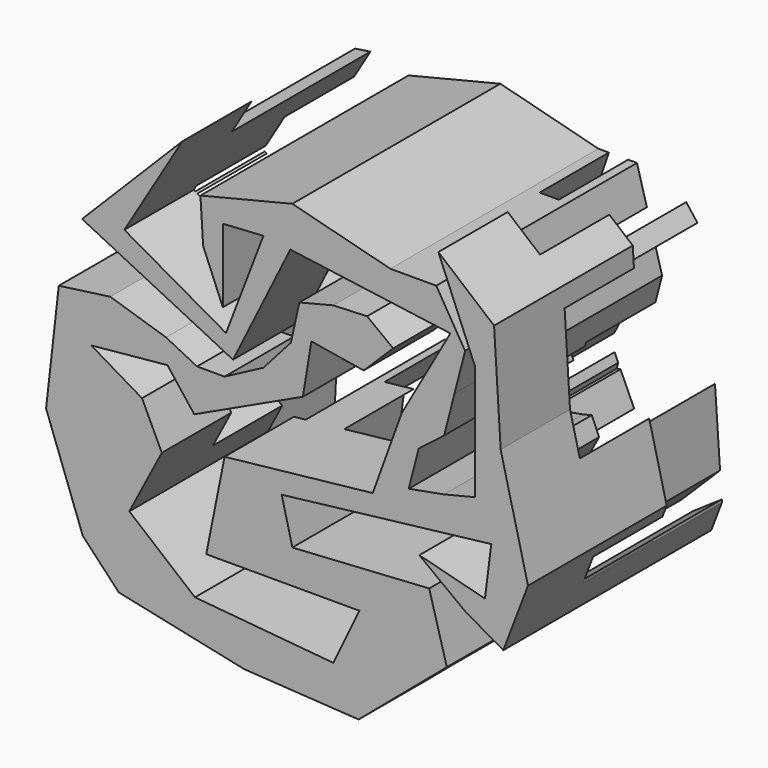
from build123d import *

# Parameters (mm, degrees)
F1_DEPTH = 76.2
F3_DEPTH = 25.4
F5_DEPTH = 50.8


with BuildPart() as f1:
    # F0 (on Front) → F1 (new body)
    with BuildSketch(Plane.XZ):
        Polygon((-46.103954, 32.975696), (-29.150931, 61.299652), (-58.508605, 31.735234), (-14.265349, 9.820349), (2.522026, 43.711839), (49.411863, 37.317328), (35.146512, 12.094535), (26.67, -11.267558), (-16.746279, -16.022675), (-22.121629, -42.899422), (22.741862, -42.899422), (15.092324, -58.81872), (-25.429536, -55.097323), (-44.656742, -39.178025), (-35.146512, -20.984536), (-40.935349, -8.786628), (-55.820931, 0), (-33.492558, 2.170814), (-25.63628, -7.959652), (6.202325, 6.92593), (8.683257, 22.018258), (24.012733, 19.498343), (32.665581, 28.013837), (25.016049, 33.802673), (15.092324, 33.389185), (5.168606, 30.908257), (2.687674, 19.74407), (-5.375348, 10.647326), (-16.746279, 4.651744), (-24.809303, 4.651744), (-33.906046, 9.200117), (-50.238837, 14.36872), (-65.331161, 12.301279), (-69.052555, -20.571047), (-58.301862, -49.928721), (-47.757909, -61.092909), (-10.957442, -68.949185), (22.535117, -71.016632), (48.37814, -49.101744), (43.209534, -30.494768), (3.101162, -32.975696), (0, -20.364303), (61.403029, -13.128256), (59.542328, -27.807092), (40.315118, -22.845231), (53.753491, -32.975696), (64.917676, -39.384767), (72.153717, -20.364303), (64.155609, 12.161336), (62.217551, 43.493307), (45.897208, 57.164766), (56.647904, 31.115001), (56.647904, -2.584302), (47.545715, -4.822546), (37.213955, -6.719186), (40.134595, 4.598293), (47.581897, 10.37375), (50.629741, 22.184147), (53.734333, 34.214439), (45.276977, 48.274767), (31.838607, 48.274767), (3.101162, 55.690882), (-23.822103, 49.070407), (-23.035581, 36.354955), (-17.262515, 22.366371), (-17.262515, 43.933142), (-5.369699, 44.668779), (-16.33279, 16.022675), align=None)
    extrude(amount=F1_DEPTH)

    # F2 (on Front) → F3 (cut)
    with BuildSketch(Plane.XZ):
        Polygon((49.825352, 23.25872), (37.627444, 56.131046), (31.631861, 38.764536), (7.649535, 38.764536), (35.973489, 25.532907), (19.020466, 27.393606), (5.995581, 12.094535), (-5.375349, 41.865699), (-19.847441, 41.865699), (-41.762326, 43.726396), (-48.584882, 35.456628), (-59.335578, 15.81593), (-62.436741, -9.200117), (-59.335578, -36.697093), (-48.413972, -58.958988), (-34.733023, -57.164766), (-43.002788, 5.892209), (-45.48372, -44.760119), (-53.546742, -18.503604), (-53.546742, 9.40686), (-18.606979, 33.802673), (0, 14.782209), (-12.611395, -21.398025), (-22.741862, 12.921512), (-31.218374, -38.764536), (-9.923722, -67.708723), (11.991163, -38.971279), (3.92814, -9.613604), (26.513738, -25.474763), (23.568837, -33.389185), (68.018839, -49.928721), (68.018839, -59.438955), (42.589303, -56.958023), (58.715347, -53.029887), (40.728606, -48.895001), (20.467674, -64.400814), (73.187441, -64.400814), (73.187441, 0), (68.63907, 25.946395), (63.470468, 53.029887), (49.825352, 53.029887), (61.816514, 37.317328), (56.854654, 16.642908), (41.348837, 11.887791), (35.353258, 0), (43.829769, -18.710349), (58.508605, -18.710349), (50.445583, 3.824767), (64.917676, 14.575465), (69.052555, -46.207324), (36.386978, -21.19128), (15.29907, 7.752907), align=None)
    extrude(amount=F3_DEPTH, mode=Mode.SUBTRACT)

    # F4 (on Front) → F5 (cut)
    with BuildSketch(Plane.XZ):
        Polygon((-27.290232, 63.573837), (-51.892791, 57.578254), (-58.095116, 20.777792), (-23.50828, 14.94855), (-25.429536, -19.950815), (-56.234419, -19.950815), (-2.894419, -57.991743), (41.650062, 4.46737), (-4.755117, -15.609186), (-7.649535, -37.524071), (-16.019059, -36.418662), (-11.209047, 0), (0, 34.62965), (30.184651, 33.182442), (0, 47.241047), (-26.463257, 47.241047), (-33.285815, 32.355465), (-45.690466, 32.355465), (-42.175815, 50.548956), (12.197907, 58.198489), (42.175815, 51.789422), (56.441166, 0), (38.247675, 28.840814), (6.409069, 24.499185), (4.548372, 9.200117), (14.678836, 4.46737), (14.678836, 16.642908), (28.737443, 14.782209), (27.656616, 6.615968), (44.243257, 9.613604), (52.348251, -9.120369), (41.650062, -29.254302), (30.391395, -52.20291), (41.650062, -57.726452), (59.12884, -36.490351), (68.225577, -30.288024), (61.196279, -59.852444), (32.665581, -64.400814), (0, -69.776163), (24.809305, -53.856865), (21.166115, -45.435955), (-16.746279, -70.396394), (-43.829769, -44.966862), (-63.470468, -30.08128), (-63.470468, -57.991743), (-38.040932, -73.290817), (56.441166, -73.290817), (70.913255, -53.856865), (70.913255, -19.74407), (47.34442, -43.106165), (56.441166, -21.604769), (43.623026, -38.144302), (69.466047, 4.46737), (66.571631, 35.870116), (58.715351, 39.591514), (50.445579, 63.367099), (28.117212, 66.261508), (-4.341628, 66.261508), align=None)
    extrude(amount=F5_DEPTH, mode=Mode.SUBTRACT)


solid = f1.part
